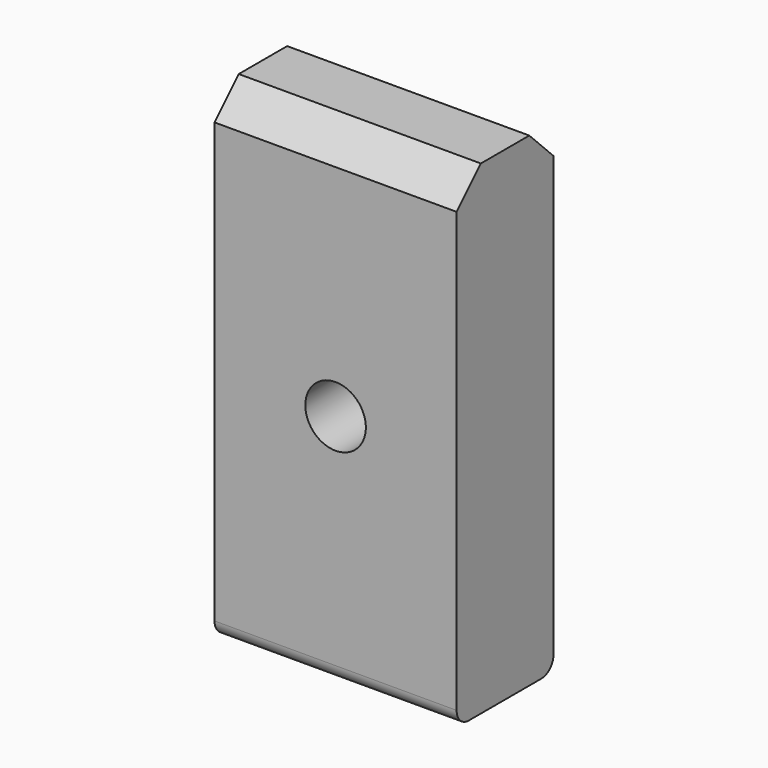
from build123d import *

# Parameters (mm, degrees)
F0_W     = 1.1063814163
F0_H     = 17.7862383425
F1_DEPTH = 200
F2_SIZE  = 50
F3_R     = 25
F5_D     = 100


with BuildPart() as f1:
    # F0 (on Front) → F1 (new body)
    with BuildSketch(Plane.XZ):
        with Locations((170.4081445932, 8.8931191713)):
            Rectangle(F0_W, F0_H)
        Polygon((0, 800), (0, 0), (169.8549538851, 0), (169.8549538851, 17.7862383425), (170.9613353014, 17.7862383425), (170.9613353014, 0), (400, 0), (400, 800), align=None)
    extrude(amount=F1_DEPTH)

    # F2
    f2_edges = [f1.edges().sort_by_distance(p)[0] for p in [
        (200, -200, 800),
        (200, 0, 800),
    ]]
    chamfer(f2_edges, length=F2_SIZE)

    # F3
    f3_edges = [f1.edges().sort_by_distance(p)[0] for p in [
        (200, -200, 0),
        (200, 0, 0),
    ]]
    fillet(f3_edges, radius=F3_R)

    # F5 (through all)
    with Locations(Plane.XZ.offset(200)):
        with Locations((200, 387.5)):
            Hole(F5_D / 2)


solid = f1.part
